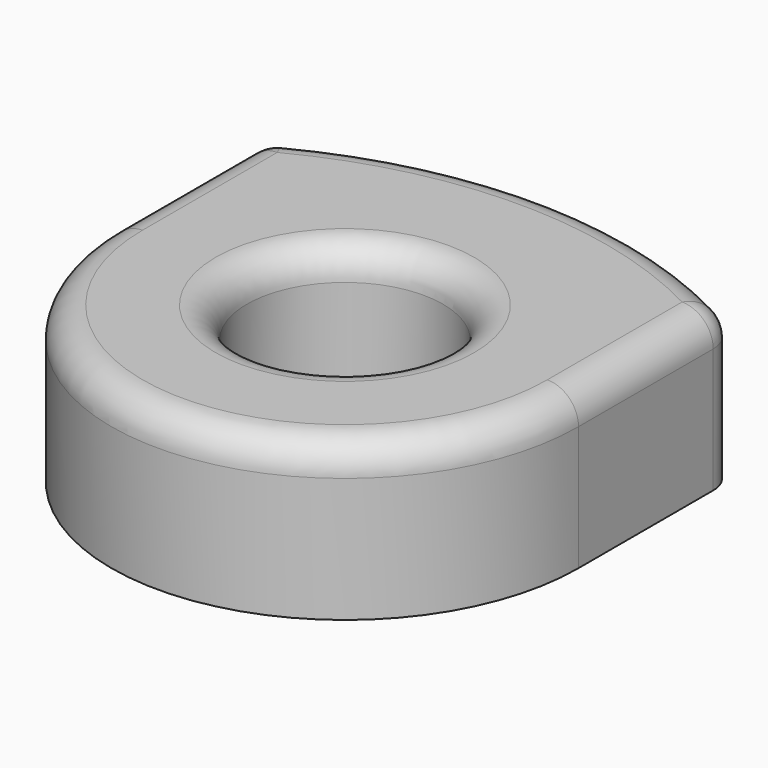
from build123d import *

# Parameters (mm, degrees)
F0_R     = 3.15
F1_DEPTH = 5
F2_R     = 1
F3_R     = 1


with BuildPart() as f1:
    # F0 (on Top) → F1 (new body)
    with BuildSketch(Plane.XY):
        with BuildLine():
            Line((-7.5, 6), (-7.5, 0))
            ThreePointArc((-7.5, 0), (0, -7.5), (7.5, 0))
            Line((7.5, 0), (7.5, 6))
            ThreePointArc((7.5, 6), (0, 8), (-7.5, 6))
        make_face()
        Circle(F0_R, mode=Mode.SUBTRACT)
    extrude(amount=F1_DEPTH)

    # F2
    f2_edges = [f1.edges().sort_by_distance(p)[0] for p in [
        (-7.5, 6, 2.5),
        (7.5, 6, 2.5),
    ]]
    fillet(f2_edges, radius=F2_R)

    # F3
    f3_edges = [f1.edges().sort_by_distance(p)[0] for p in [
        (-7.5, 2.70381, 5),
        (-3.15, 0, 5),
    ]]
    fillet(f3_edges, radius=F3_R)


solid = f1.part
